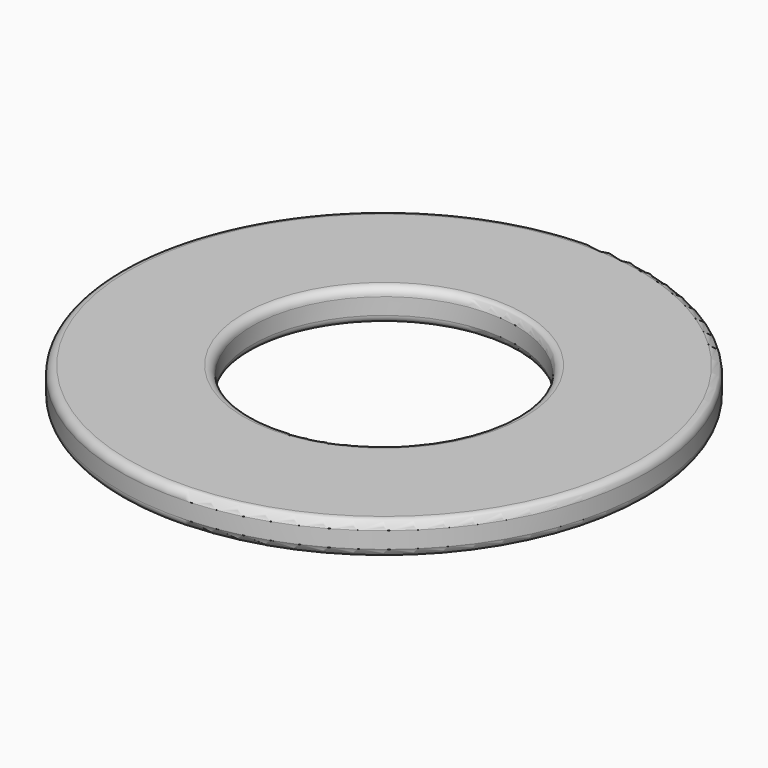
from build123d import *

# Parameters (mm, degrees)
F0_R     = 12.7
F0_R_2   = 6.35
F1_DEPTH = 1.5875
F2_R     = 0.396875


with BuildPart() as f1:
    # F0 (on Top) → F1 (new body)
    with BuildSketch(Plane.XY):
        Circle(F0_R)
        Circle(F0_R_2, mode=Mode.SUBTRACT)
    extrude(amount=F1_DEPTH)

    # F2
    f2_edges = [f1.edges().sort_by_distance(p)[0] for p in [
        (-12.7, 0, 0),
        (-6.35, 0, 0),
        (-12.7, 0, 1.5875),
        (12.7, 0, 0.79375),
        (-6.35, 0, 1.5875),
        (6.35, 0, 0.79375),
    ]]
    fillet(f2_edges, radius=F2_R)


solid = f1.part
